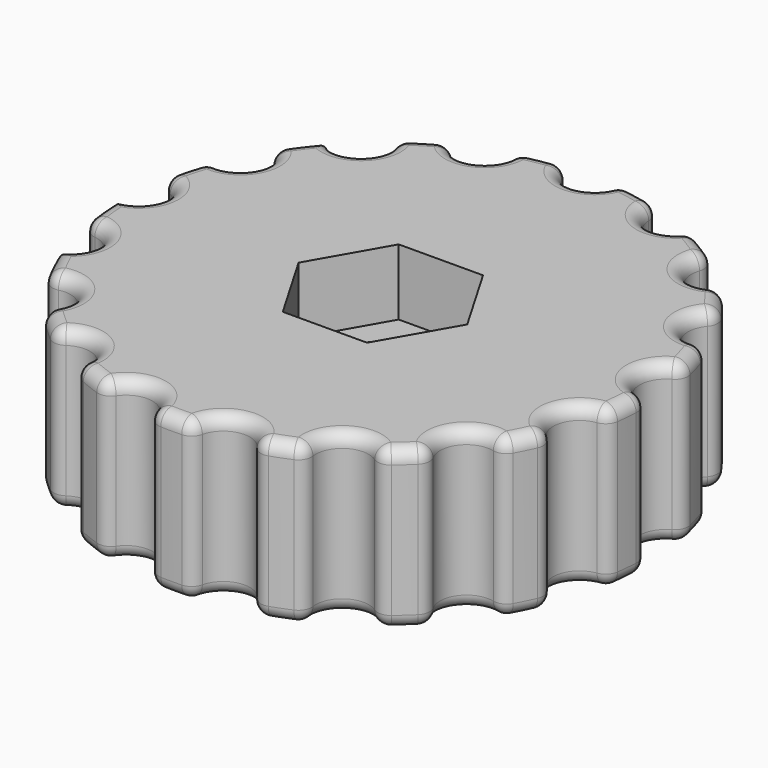
from build123d import *

# Parameters (mm, degrees)
F1_DEPTH = 6
F2_R     = 0.5
F4_DEPTH = 2.5
F5_R     = 4
F6_DEPTH = 0.75
F7_R     = 1.75
F8_DEPTH = 6


with BuildPart() as f1:
    # F0 (on Top) → F1 (new body)
    with BuildSketch(Plane.XY):
        with BuildLine():
            ThreePointArc((0.998749, 9.95), (0, 9), (-0.998749, 9.95))
            ThreePointArc((-0.998749, 9.95), (-1.837495, 9.829731), (-2.663049, 9.638889))
            ThreePointArc((-2.663049, 9.638889), (-3.251175, 8.39225), (-4.52566, 8.917309))
            ThreePointArc((-4.52566, 8.917309), (-5.264322, 8.502171), (-5.965187, 8.025992))
            ThreePointArc((-5.965187, 8.025992), (-6.063261, 6.65108), (-7.441356, 6.680286))
            ThreePointArc((-7.441356, 6.680286), (-7.980172, 6.026346), (-8.461694, 5.32914))
            ThreePointArc((-8.461694, 5.32914), (-8.05647, 4.011645), (-9.352056, 3.541053))
            ThreePointArc((-9.352056, 3.541053), (-9.618256, 2.73663), (-9.815402, 1.912559))
            ThreePointArc((-9.815402, 1.912559), (-8.961608, 0.830415), (-9.999708, -0.076419))
            ThreePointArc((-9.999708, -0.076419), (-9.957342, -0.922684), (-9.843486, -1.762324))
            ThreePointArc((-9.843486, -1.762324), (-8.656431, -2.462967), (-9.296844, -3.683569))
            ThreePointArc((-9.296844, -3.683569), (-8.951633, -4.457384), (-8.542152, -5.199196))
            ThreePointArc((-8.542152, -5.199196), (-7.182155, -5.423712), (-7.338391, -6.793234))
            ThreePointArc((-7.338391, -6.793234), (-6.736956, -7.390089), (-6.087154, -7.933887))
            ThreePointArc((-6.087154, -7.933887), (-4.737889, -7.651954), (-4.388846, -8.985434))
            ThreePointArc((-4.388846, -8.985434), (-3.612417, -9.324722), (-2.810051, -9.597063))
            ThreePointArc((-2.810051, -9.597063), (-1.653746, -8.846758), (-0.846564, -9.964102))
            ThreePointArc((-0.846564, -9.964102), (0, -10), (0.846564, -9.964102))
            ThreePointArc((0.846564, -9.964102), (1.653746, -8.846758), (2.810051, -9.597063))
            ThreePointArc((2.810051, -9.597063), (3.612417, -9.324722), (4.388846, -8.985434))
            ThreePointArc((4.388846, -8.985434), (4.737889, -7.651954), (6.087154, -7.933887))
            ThreePointArc((6.087154, -7.933887), (6.736956, -7.390089), (7.338391, -6.793234))
            ThreePointArc((7.338391, -6.793234), (7.182155, -5.423712), (8.542152, -5.199196))
            ThreePointArc((8.542152, -5.199196), (8.951633, -4.457384), (9.296844, -3.683569))
            ThreePointArc((9.296844, -3.683569), (8.656431, -2.462967), (9.843486, -1.762324))
            ThreePointArc((9.843486, -1.762324), (9.957342, -0.922684), (9.999708, -0.076419))
            ThreePointArc((9.999708, -0.076419), (8.961608, 0.830415), (9.815402, 1.912559))
            ThreePointArc((9.815402, 1.912559), (9.618256, 2.73663), (9.352056, 3.541053))
            ThreePointArc((9.352056, 3.541053), (8.05647, 4.011645), (8.461694, 5.32914))
            ThreePointArc((8.461694, 5.32914), (7.980172, 6.026346), (7.441356, 6.680286))
            ThreePointArc((7.441356, 6.680286), (6.063261, 6.65108), (5.965187, 8.025992))
            ThreePointArc((5.965187, 8.025992), (5.264322, 8.502171), (4.52566, 8.917309))
            ThreePointArc((4.52566, 8.917309), (3.251175, 8.39225), (2.663049, 9.638889))
            ThreePointArc((2.663049, 9.638889), (1.837495, 9.829731), (0.998749, 9.95))
        make_face()
    extrude(amount=F1_DEPTH)

    # F2
    f2_edges = [f1.edges().sort_by_distance(p)[0] for p in [
        (-0.998749, 9.95, 3),
        (2.663049, 9.638889, 3),
        (0.998749, 9.95, 3),
        (4.52566, 8.917309, 3),
        (5.965187, 8.025992, 3),
        (7.441356, 6.680286, 3),
        (8.461694, 5.32914, 3),
        (9.352056, 3.541053, 3),
        (9.815402, 1.912559, 3),
        (9.999708, -0.076419, 3),
        (9.843486, -1.762324, 3),
        (9.296844, -3.683569, 3),
        (8.542152, -5.199196, 3),
        (7.338391, -6.793234, 3),
        (6.087154, -7.933887, 3),
        (4.388846, -8.985434, 3),
        (2.810051, -9.597063, 3),
        (0.846564, -9.964102, 3),
        (-0.846564, -9.964102, 3),
        (-2.810051, -9.597063, 3),
        (-4.388846, -8.985434, 3),
        (-6.087154, -7.933887, 3),
        (-7.338391, -6.793234, 3),
        (-8.542152, -5.199196, 3),
        (-9.843486, -1.762324, 3),
        (-9.815402, 1.912559, 3),
        (-9.352056, 3.541053, 3),
        (-8.461694, 5.32914, 3),
        (-5.965187, 8.025992, 3),
        (-4.52566, 8.917309, 3),
        (-2.663049, 9.638889, 3),
        (3.251175, 8.39225, 6),
        (1.837495, 9.829731, 6),
        (0, 9, 6),
        (-1.837495, 9.829731, 6),
        (-3.251175, 8.39225, 6),
        (-5.264322, 8.502171, 6),
        (-6.063261, 6.65108, 6),
        (-7.980172, 6.026346, 6),
        (-8.05647, 4.011645, 6),
        (-9.618256, 2.73663, 6),
        (-8.961608, 0.830415, 6),
        (-9.957342, -0.922684, 6),
        (-8.656431, -2.462967, 6),
        (-8.951633, -4.457384, 6),
        (-7.182155, -5.423712, 6),
        (-6.736956, -7.390089, 6),
        (-4.737889, -7.651954, 6),
        (-3.612417, -9.324722, 6),
        (-1.653746, -8.846758, 6),
        (0, -10, 6),
        (1.653746, -8.846758, 6),
        (3.612417, -9.324722, 6),
        (4.737889, -7.651954, 6),
        (6.736956, -7.390089, 6),
        (7.182155, -5.423712, 6),
        (8.951633, -4.457384, 6),
        (8.656431, -2.462967, 6),
        (9.957342, -0.922684, 6),
        (8.961608, 0.830415, 6),
        (9.618256, 2.73663, 6),
        (8.05647, 4.011645, 6),
        (7.980172, 6.026346, 6),
        (6.063261, 6.65108, 6),
        (5.264322, 8.502171, 6),
        (3.251175, 8.39225, 0),
        (1.837495, 9.829731, 0),
        (0, 9, 0),
        (-1.837495, 9.829731, 0),
        (-3.251175, 8.39225, 0),
        (-5.264322, 8.502171, 0),
        (-6.063261, 6.65108, 0),
        (-7.980172, 6.026346, 0),
        (-8.05647, 4.011645, 0),
        (-9.618256, 2.73663, 0),
        (-8.961608, 0.830415, 0),
        (-9.957342, -0.922684, 0),
        (-8.656431, -2.462967, 0),
        (-8.951633, -4.457384, 0),
        (-7.182155, -5.423712, 0),
        (-6.736956, -7.390089, 0),
        (-4.737889, -7.651954, 0),
        (-3.612417, -9.324722, 0),
        (-1.653746, -8.846758, 0),
        (0, -10, 0),
        (1.653746, -8.846758, 0),
        (3.612417, -9.324722, 0),
        (4.737889, -7.651954, 0),
        (6.736956, -7.390089, 0),
        (7.182155, -5.423712, 0),
        (8.951633, -4.457384, 0),
        (8.656431, -2.462967, 0),
        (9.957342, -0.922684, 0),
        (8.961608, 0.830415, 0),
        (9.618256, 2.73663, 0),
        (8.05647, 4.011645, 0),
        (7.980172, 6.026346, 0),
        (6.063261, 6.65108, 0),
        (5.264322, 8.502171, 0),
    ]]
    fillet(f2_edges, radius=F2_R)

    # F3 (on face) → F4 (cut)
    with BuildSketch(Plane.XY.offset(6)):
        Polygon((1.598363, -2.743824), (3.175403, 0.012311), (1.57704, 2.756135), (-1.598363, 2.743824), (-3.175403, -0.012311), (-1.57704, -2.756135), align=None)
    extrude(amount=-F4_DEPTH, mode=Mode.SUBTRACT)

    # F5 (on face) → F6 (join)
    with BuildSketch(Plane(origin=(0, 0, 0), x_dir=(1, 0, 0), z_dir=(0, 0, -1))):
        Circle(F5_R)
    extrude(amount=F6_DEPTH)

    # F7 (on face) → F8 (cut)
    with BuildSketch(Plane(origin=(0, 0, -0.75), x_dir=(1, 0, 0), z_dir=(0, 0, -1))):
        Circle(F7_R)
    extrude(amount=-F8_DEPTH, mode=Mode.SUBTRACT)


solid = f1.part
